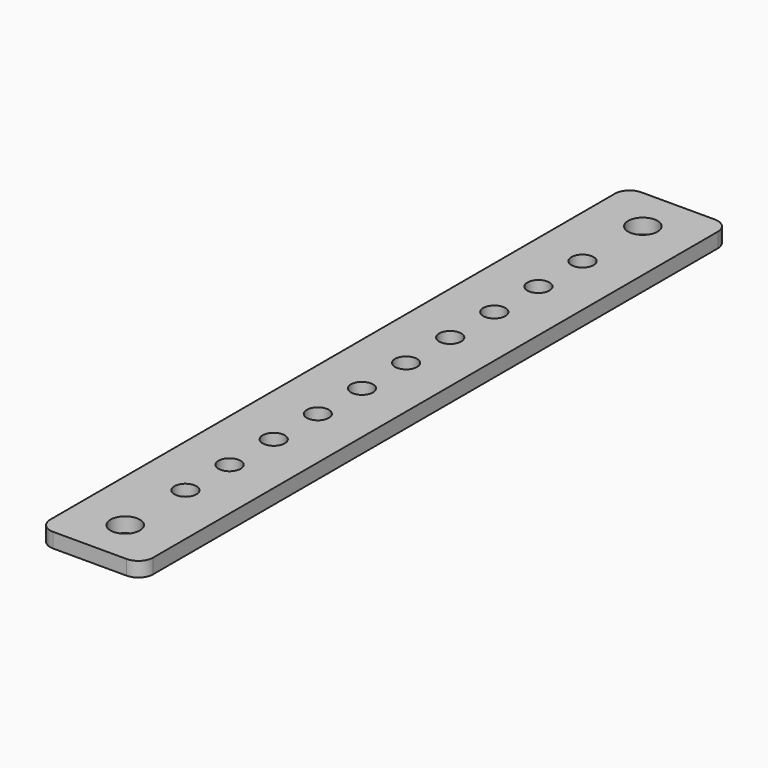
from build123d import *

# Parameters (mm, degrees)
F0_R     = 2
F0_R_2   = 1.5
F1_DEPTH = 2


with BuildPart() as f1:
    # F0 (on Top) → F1 (new body)
    with BuildSketch(Plane.XY):
        with BuildLine():
            ThreePointArc((7, 48), (6.414214, 49.414214), (5, 50))
            Line((5, 50), (-5, 50))
            ThreePointArc((-5, 50), (-6.414214, 49.414214), (-7, 48))
            Line((-7, 48), (-7, -48))
            ThreePointArc((-7, -48), (-6.414214, -49.414214), (-5, -50))
            Line((-5, -50), (5, -50))
            ThreePointArc((5, -50), (6.414214, -49.414214), (7, -48))
            Line((7, -48), (7, 48))
        make_face()
        with Locations((0, -44)):
            Circle(F0_R, mode=Mode.SUBTRACT)
        with Locations((0, -33.75)):
            Circle(F0_R_2, mode=Mode.SUBTRACT)
        with Locations((0, -26.25)):
            Circle(F0_R_2, mode=Mode.SUBTRACT)
        with Locations((0, -18.75)):
            Circle(F0_R_2, mode=Mode.SUBTRACT)
        with Locations((0, -11.25)):
            Circle(F0_R_2, mode=Mode.SUBTRACT)
        with Locations((0, -3.75)):
            Circle(F0_R_2, mode=Mode.SUBTRACT)
        with Locations((0, 3.75)):
            Circle(F0_R_2, mode=Mode.SUBTRACT)
        with Locations((0, 11.25)):
            Circle(F0_R_2, mode=Mode.SUBTRACT)
        with Locations((0, 18.75)):
            Circle(F0_R_2, mode=Mode.SUBTRACT)
        with Locations((0, 26.25)):
            Circle(F0_R_2, mode=Mode.SUBTRACT)
        with Locations((0, 33.75)):
            Circle(F0_R_2, mode=Mode.SUBTRACT)
        with Locations((0, 44)):
            Circle(F0_R, mode=Mode.SUBTRACT)
    extrude(amount=F1_DEPTH)


solid = f1.part
